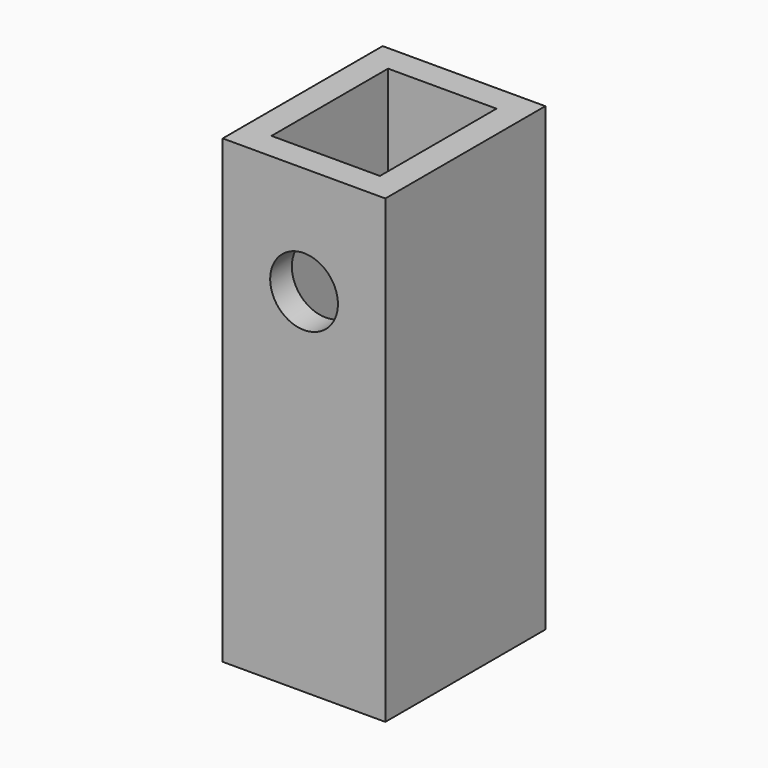
from build123d import *

# Parameters (mm, degrees)
F0_W     = 12
F0_H     = 14.75
F1_DEPTH = 34
F2_W     = 8
F2_H     = 10.75
F3_DEPTH = 36
F5_D     = 5


with BuildPart() as f1:
    # F0 (on Top) → F1 (new body)
    with BuildSketch(Plane.XY):
        Rectangle(F0_W, F0_H)
    extrude(amount=-F1_DEPTH)

    # F2 (on face) → F3 (cut)
    with BuildSketch(Plane.XY):
        Rectangle(F2_W, F2_H)
    extrude(amount=-F3_DEPTH, mode=Mode.SUBTRACT)

    # F5 (through all)
    with Locations(Plane.XZ.offset(7.375)):
        with Locations((0, -8)):
            Hole(F5_D / 2)


solid = f1.part
